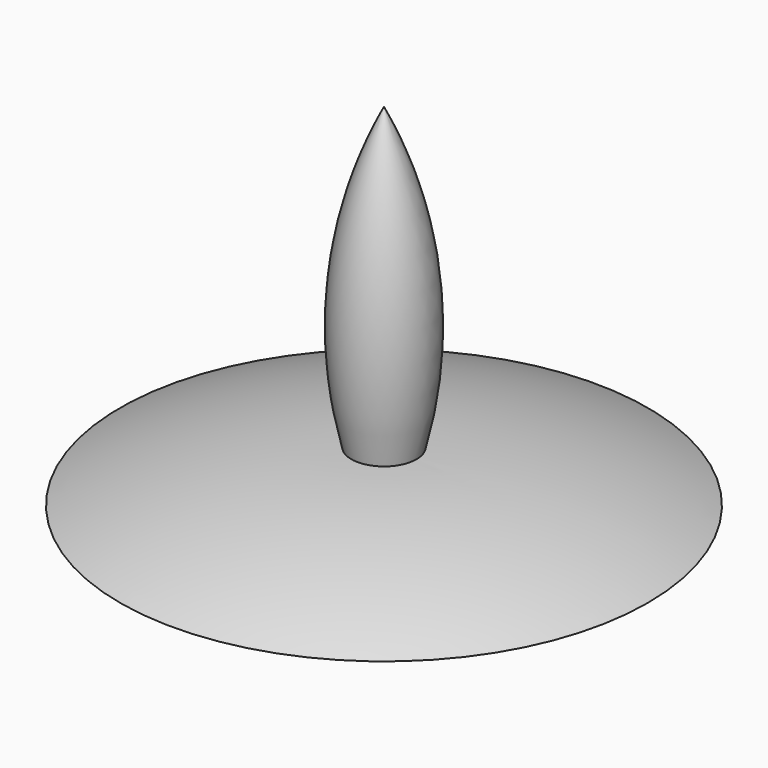
from build123d import *


with BuildPart() as f1:
    # F0 (on Front) → F1 (revolve)
    with BuildSketch(Plane.XZ):
        with BuildLine():
            Line((-1.97121, 34.941275), (-1.97121, -3.41363))
            ThreePointArc((-1.97121, -3.41363), (-1.232953, -1.884627), (-0.556568, -0.327265))
            ThreePointArc((-0.556568, -0.327265), (0.450471, 2.384869), (1.270021, 5.15942))
            ThreePointArc((1.270021, 5.15942), (2.370342, 20.346474), (-1.97121, 34.941275))
        make_face()
        with BuildLine():
            ThreePointArc((1.270021, 5.15942), (0.450471, 2.384869), (-0.556568, -0.327265))
            Line((-0.556568, -0.327265), (24.252994, 0.07114))
            ThreePointArc((24.252994, 0.07114), (13.02268, 3.794956), (1.270021, 5.15942))
        make_face()
    revolve(axis=Axis((-1.97121, 0, 15.763823), (0, 0, -1)))


solid = f1.part
